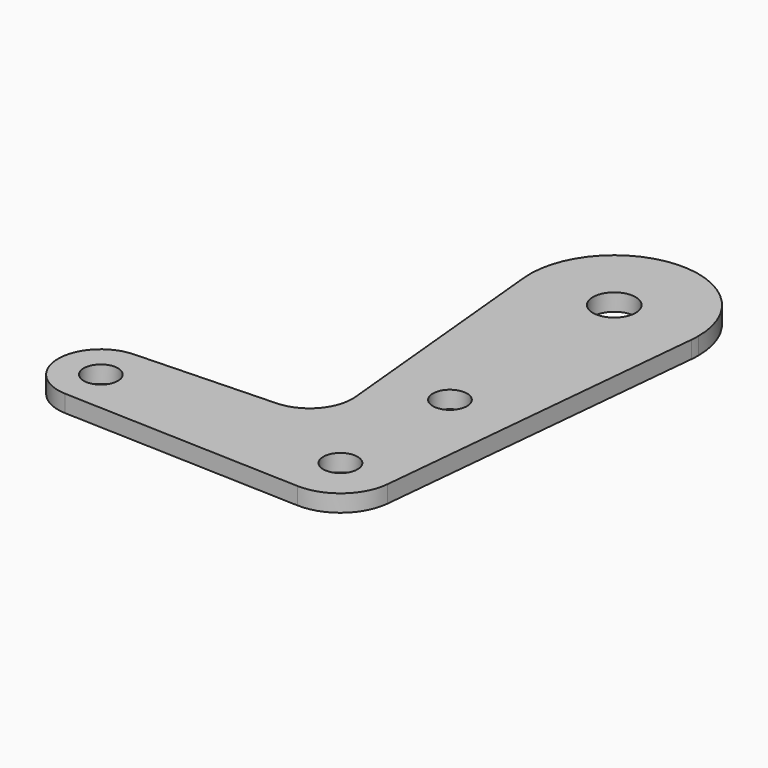
from build123d import *

# Parameters (mm, degrees)
F0_R     = 3.175
F0_R_2   = 3.96875
F1_DEPTH = 3.175


with BuildPart() as f1:
    # F0 (on Top) → F1 (new body)
    with BuildSketch(Plane.XY):
        with BuildLine():
            ThreePointArc((-44.733482, -7.932436), (-38.938477, -5.712007), (-36.5125, 0))
            ThreePointArc((-36.5125, 0), (-38.938477, 5.712007), (-44.733482, 7.932436))
            ThreePointArc((-44.733482, 7.932436), (-52.3875, 0), (-44.733482, -7.932436))
        make_face()
        with Locations((-44.45, 0)):
            Circle(F0_R, mode=Mode.SUBTRACT)
        with BuildLine():
            ThreePointArc((-44.733482, 7.932436), (-38.938477, 5.712007), (-36.5125, 0))
            ThreePointArc((-36.5125, 0), (-38.938477, -5.712007), (-44.733482, -7.932436))
            Line((-44.733482, -7.932436), (-0.340179, -9.518923))
            ThreePointArc((-0.340179, -9.518923), (-6.613827, 6.854408), (9.525, 0))
            ThreePointArc((9.525, 0), (9.513995, -0.457729), (9.481007, -0.9144))
            Line((9.481007, -0.9144), (15.548852, 62.000384))
            ThreePointArc((15.548852, 62.000384), (0, 47.879), (-15.548852, 62.000384))
            Line((-15.548852, 62.000384), (-11.261894, 17.550827))
            ThreePointArc((-11.261894, 17.550827), (-13.192467, 11.558166), (-18.879252, 8.856391))
            Line((-18.879252, 8.856391), (-44.733482, 7.932436))
        make_face()
        with Locations((0, 25.4)):
            Circle(F0_R, mode=Mode.SUBTRACT)
        with BuildLine():
            ThreePointArc((9.525, 0), (-6.613827, 6.854408), (-0.340179, -9.518923))
            ThreePointArc((-0.340179, -9.518923), (6.276794, -7.16432), (9.481007, -0.9144))
            ThreePointArc((9.481007, -0.9144), (9.513995, -0.457729), (9.525, 0))
        make_face()
        Circle(F0_R, mode=Mode.SUBTRACT)
        with BuildLine():
            ThreePointArc((15.621, 63.5), (-0.750675, 79.102953), (-15.548852, 62.000384))
            ThreePointArc((-15.548852, 62.000384), (0, 47.879), (15.548852, 62.000384))
            ThreePointArc((15.548852, 62.000384), (15.602953, 62.749325), (15.621, 63.5))
        make_face()
        with Locations((0, 63.5)):
            Circle(F0_R_2, mode=Mode.SUBTRACT)
    extrude(amount=F1_DEPTH)


solid = f1.part
